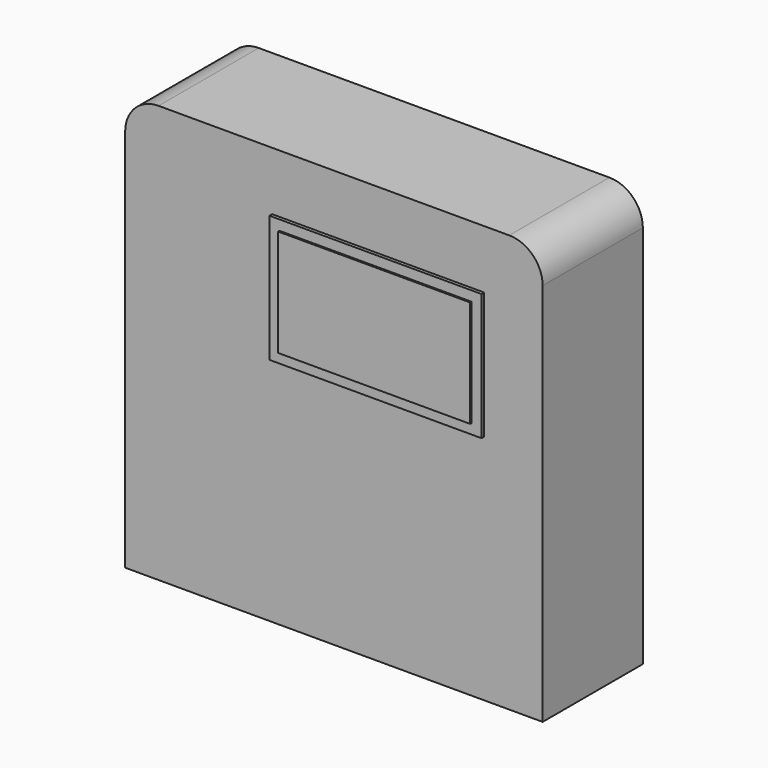
from build123d import *

# Parameters (mm, degrees)
F0_W     = 250
F0_H     = 250
F1_DEPTH = 37.5
F2_R     = 20
F3_W     = 127
F3_H     = 76
F4_DEPTH = 2
F5_W     = 115
F5_H     = 64
F6_DEPTH = 1


with BuildPart() as f1:
    # F0 (on Front) → F1 (new body, symmetric)
    with BuildSketch(Plane.XZ):
        Rectangle(F0_W, F0_H)
    extrude(amount=F1_DEPTH, both=True)

    # F2
    f2_edges = [f1.edges().sort_by_distance(p)[0] for p in [
        (125, 0, 125),
        (-125, 0, 125),
    ]]
    fillet(f2_edges, radius=F2_R)


with BuildPart() as f4:
    # F3 (on face) → F4 (new body)
    with BuildSketch(Plane.XZ.offset(37.5)):
        with Locations((26.5, 52)):
            Rectangle(F3_W, F3_H)
    extrude(amount=F4_DEPTH)

    # F5 (on face) → F6 (join)
    with BuildSketch(Plane.XZ.offset(39.5)):
        with Locations((26.5, 52)):
            Rectangle(F5_W, F5_H)
    extrude(amount=F6_DEPTH)


solid = Compound([f1.part, f4.part])
